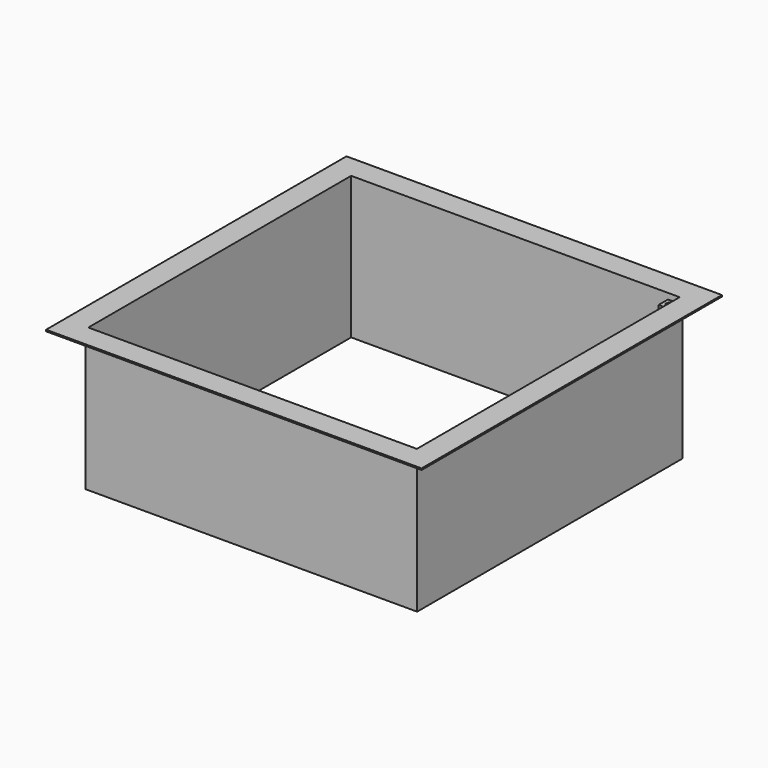
from build123d import *

# Parameters (mm, degrees)
F0_W     = 812.8
F0_H     = 812.8
F0_W_2   = 711.2
F0_H_2   = 711.2
F1_DEPTH = 3.175
F2_W     = 717.55
F2_H     = 717.55
F2_W_2   = 711.2
F2_H_2   = 711.2
F3_DEPTH = 304.8
F4_W     = 25.4
F4_H     = 25.4
F5_DEPTH = 25.4
F6_R     = 6.35
F7_DEPTH = 25.4


with BuildPart() as f1:
    # F0 (on Top) → F1 (new body)
    with BuildSketch(Plane.XY):
        Rectangle(F0_W, F0_H)
        Rectangle(F0_W_2, F0_H_2, mode=Mode.SUBTRACT)
    extrude(amount=F1_DEPTH)

    # F2 (on face) → F3 (join)
    with BuildSketch(Plane(origin=(0, 0, 0), x_dir=(1, 0, 0), z_dir=(0, 0, -1))):
        Rectangle(F2_W, F2_H)
        Rectangle(F2_W_2, F2_H_2, mode=Mode.SUBTRACT)
    extrude(amount=F3_DEPTH)

    # F4 (on face) → F5 (join)
    with BuildSketch(Plane.XZ.offset(-355.6)):
        with Locations((342.9, -22.225)):
            Rectangle(F4_W, F4_H)
    extrude(amount=F5_DEPTH)

    # F6 (on face) → F7 (cut, through all)
    with BuildSketch(Plane.XY.offset(-9.525)):
        with Locations((342.9, 342.9)):
            Circle(F6_R)
    extrude(amount=-F7_DEPTH, mode=Mode.SUBTRACT)


solid = f1.part
